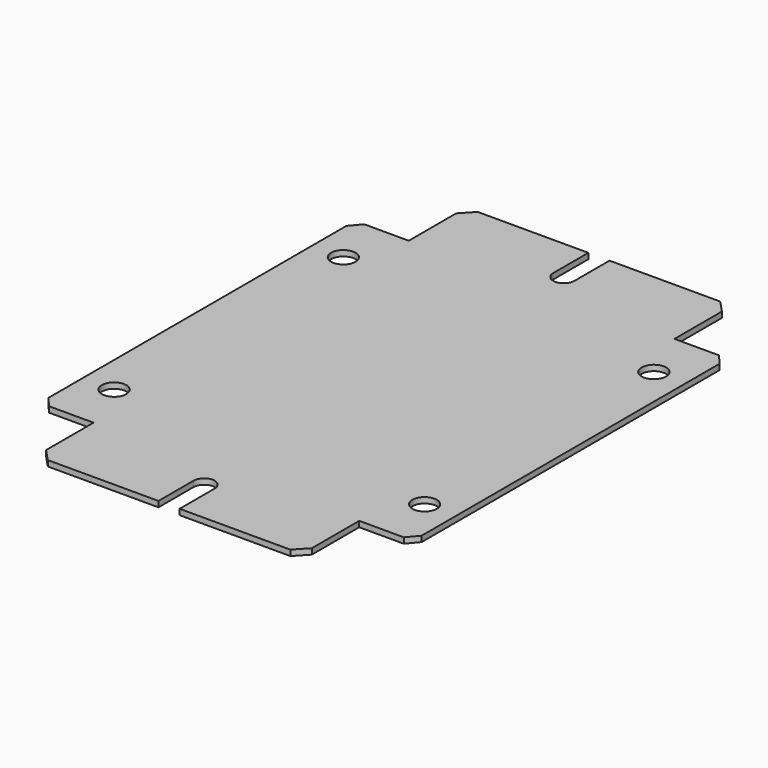
from build123d import *

# Parameters (mm, degrees)
F0_R     = 4.1
F1_DEPTH = 1.9


with BuildPart() as f1:
    # F0 (on Top) → F1 (new body)
    with BuildSketch(Plane.XY):
        with BuildLine():
            Line((3.55, -90), (40.611275, -90))
            Line((40.611275, -90), (44.5, -85.863031))
            Line((44.5, -85.863031), (44.5, -66))
            Line((44.5, -66), (59.422746, -66))
            Line((59.422746, -66), (62.5, -62.361009))
            Line((62.5, -62.361009), (62.5, 62.361009))
            Line((62.5, 62.361009), (59.422746, 66))
            Line((59.422746, 66), (44.5, 66))
            Line((44.5, 66), (44.5, 85.863031))
            Line((44.5, 85.863031), (40.611275, 90))
            Line((40.611275, 90), (3.55, 90))
            Line((3.55, 90), (3.55, 75.3))
            ThreePointArc((3.55, 75.3), (0, 71.75), (-3.55, 75.3))
            Line((-3.55, 75.3), (-3.55, 90))
            Line((-3.55, 90), (-40.611275, 90))
            Line((-40.611275, 90), (-44.5, 85.863031))
            Line((-44.5, 85.863031), (-44.5, 66))
            Line((-44.5, 66), (-59.422746, 66))
            Line((-59.422746, 66), (-62.5, 62.361009))
            Line((-62.5, 62.361009), (-62.5, -62.361009))
            Line((-62.5, -62.361009), (-59.422746, -66))
            Line((-59.422746, -66), (-44.5, -66))
            Line((-44.5, -66), (-44.5, -85.863031))
            Line((-44.5, -85.863031), (-40.611275, -90))
            Line((-40.611275, -90), (-3.55, -90))
            Line((-3.55, -90), (-3.55, -75.3))
            ThreePointArc((-3.55, -75.3), (0, -71.75), (3.55, -75.3))
            Line((3.55, -75.3), (3.55, -90))
        make_face()
        with Locations((-52, -48)):
            Circle(F0_R, mode=Mode.SUBTRACT)
        with Locations((52, -48)):
            Circle(F0_R, mode=Mode.SUBTRACT)
        with Locations((-52, 48)):
            Circle(F0_R, mode=Mode.SUBTRACT)
        with Locations((52, 48)):
            Circle(F0_R, mode=Mode.SUBTRACT)
    extrude(amount=F1_DEPTH)


solid = f1.part
